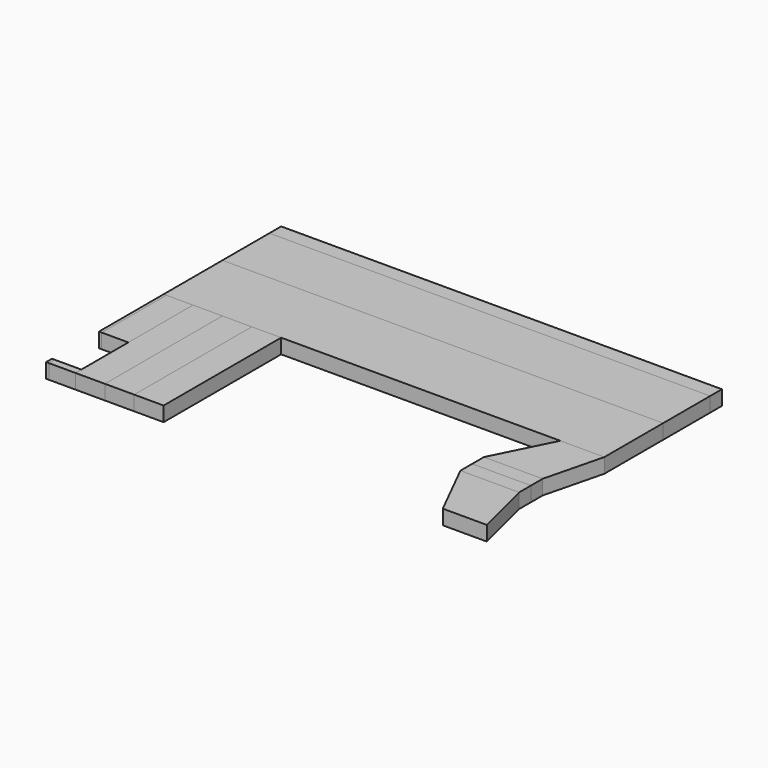
from build123d import *

# Parameters (mm, degrees)
F0_W     = 762
F0_H     = 25.4
F0_W_2   = 101.6
F0_W_3   = 46.0375
F0_H_2   = 12.7
F1_DEPTH = 25.4
F0_H_3   = 101.6
F0_W_4   = 50.8
F0_H_4   = 254
F0_W_5   = 4.7625
F0_H_5   = 139.7
F2_DEPTH = 25.4
F3_DEPTH = 25.4


with BuildPart() as f1:
    # F0 (on Top) → F1 (new body)
    with BuildSketch(Plane.XY):
        Polygon((304.8, -254), (381, -254), (355.6, -152.4), (254, -152.4), align=None)
        with Locations((0, 241.3)):
            Rectangle(F0_W, F0_H)
        Polygon((381, 127), (-381, 127), (-381, 0), (-376.2375, 0), (-330.2, 0), (-279.4, 0), (-228.6, 0), (-177.8, 0), (304.8, 0), (381, 0), align=None)
        with Locations((304.8, -114.3)):
            Rectangle(F0_W_2, F0_H)
        with Locations((-353.21875, -247.65)):
            Rectangle(F0_W_3, F0_H_2)
    extrude(amount=F1_DEPTH)


with BuildPart() as f2:
    # F0 (on Top) → F2 (new body)
    with BuildSketch(Plane.XY):
        Polygon((355.6, -101.6), (381, 0), (304.8, 0), (254, -101.6), align=None)
        with Locations((0, 177.8)):
            Rectangle(F0_W, F0_H_3)
        with Locations((-203.2, -127)):
            Rectangle(F0_W_4, F0_H_4)
        Polygon((-279.4, 0), (-330.2, 0), (-330.2, -139.7), (-330.2, -241.3), (-330.2, -254), (-279.4, -254), align=None)
        with Locations((-378.61875, -69.85)):
            Rectangle(F0_W_5, F0_H_5)
        with Locations((-378.61875, -247.65)):
            Rectangle(F0_W_5, F0_H_2)
        with Locations((304.8, -139.7)):
            Rectangle(F0_W_2, F0_H)
    extrude(amount=F2_DEPTH)


with BuildPart() as f3:
    # F0 (on Top) → F3 (new body)
    with BuildSketch(Plane.XY):
        with Locations((-254, -127)):
            Rectangle(F0_W_4, F0_H_4)
        with Locations((-353.21875, -69.85)):
            Rectangle(F0_W_3, F0_H_5)
    extrude(amount=F3_DEPTH)


solid = Compound([f1.part, f2.part, f3.part])
